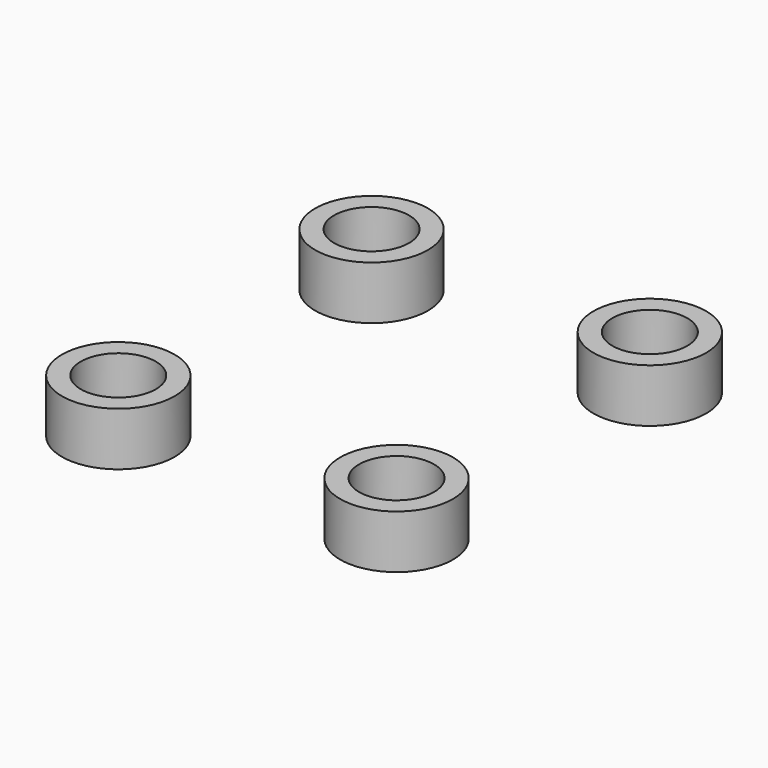
from build123d import *

# Parameters (mm, degrees)
F0_R     = 14.99997
F0_R_2   = 9.976283
F1_DEPTH = 14.1986
F2_DEPTH = 2.54
F3_DEPTH = 2.54


with BuildPart() as f1:
    # F0 (on Top) → F1 (new body)
    with BuildSketch(Plane.XY):
        with Locations((37.00538, -42.103067)):
            Circle(F0_R)
        with Locations((37.00538, -42.103067)):
            Circle(F0_R_2, mode=Mode.SUBTRACT)
        with Locations((37.00538, 42.103067)):
            Circle(F0_R)
        with Locations((37.00538, 42.103067)):
            Circle(F0_R_2, mode=Mode.SUBTRACT)
        with Locations((-37.00538, -42.103067)):
            Circle(F0_R)
        with Locations((-37.00538, -42.103067)):
            Circle(F0_R_2, mode=Mode.SUBTRACT)
        with Locations((-37.00538, 42.103067)):
            Circle(F0_R)
        with Locations((-37.00538, 42.103067)):
            Circle(F0_R_2, mode=Mode.SUBTRACT)
    extrude(amount=F1_DEPTH)


with BuildPart() as f2:
    # F0 (on Top) → F2 (new body)
    with BuildSketch(Plane.XY):
        with Locations((37.00538, 42.103067)):
            Circle(F0_R_2)
        with Locations((37.00538, -42.103067)):
            Circle(F0_R_2)
    extrude(amount=F2_DEPTH)


with BuildPart() as f3:
    # F0 (on Top) → F3 (new body)
    with BuildSketch(Plane.XY):
        with Locations((-37.00538, -42.103067)):
            Circle(F0_R_2)
        with Locations((-37.00538, 42.103067)):
            Circle(F0_R_2)
    extrude(amount=F3_DEPTH)


solid = Compound([f1.part, f2.part, f3.part])
